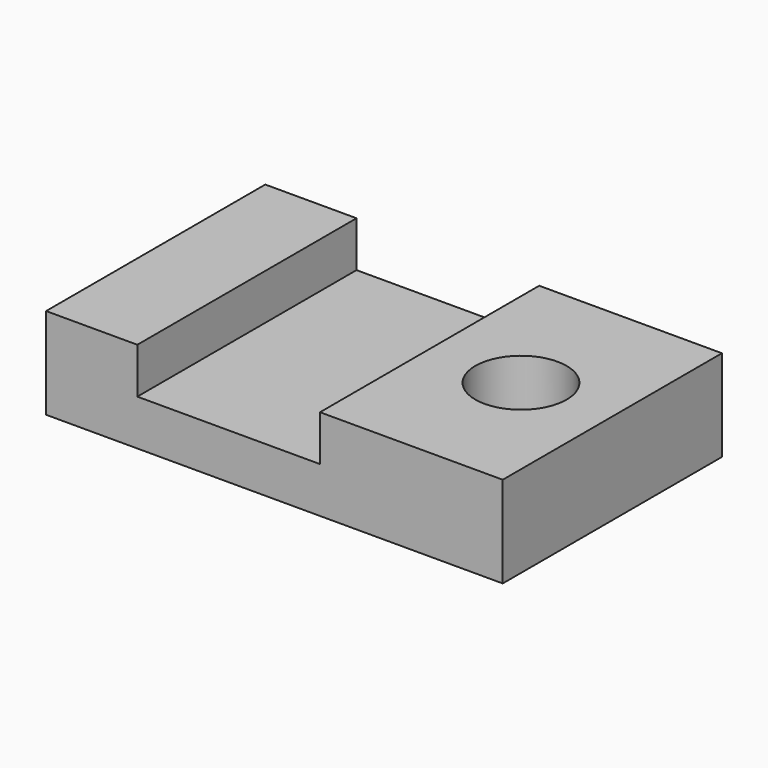
from build123d import *

# Parameters (mm, degrees)
F0_W     = 25.4
F0_H     = 25.4
F0_W_2   = 12.7105304772
F1_DEPTH = 76.2
F3_D     = 25.4


with BuildPart() as f1:
    # F0 (on Front) → F1 (new body)
    with BuildSketch(Plane.XZ):
        Polygon((-26.5836263818, -39.3118163758), (-51.9625654273, -39.3118163758), (-51.9625654273, -64.7118163758), (36.9269040955, -64.7118163758), (36.9269040955, -39.3118163758), (24.2163736182, -39.3118163758), (24.2163736182, -52.0118163758), (-26.5836263818, -52.0118163758), align=None)
        with Locations((49.6269040955, -52.0118163758)):
            Rectangle(F0_W, F0_H)
        with Locations((68.6821693341, -52.0118163758)):
            Rectangle(F0_W_2, F0_H)
    extrude(amount=F1_DEPTH)

    # F3 (through all)
    with Locations(Plane.XY.offset(-39.3118163758)):
        with Locations((49.6374345727, -38.1)):
            Hole(F3_D / 2)


solid = f1.part
